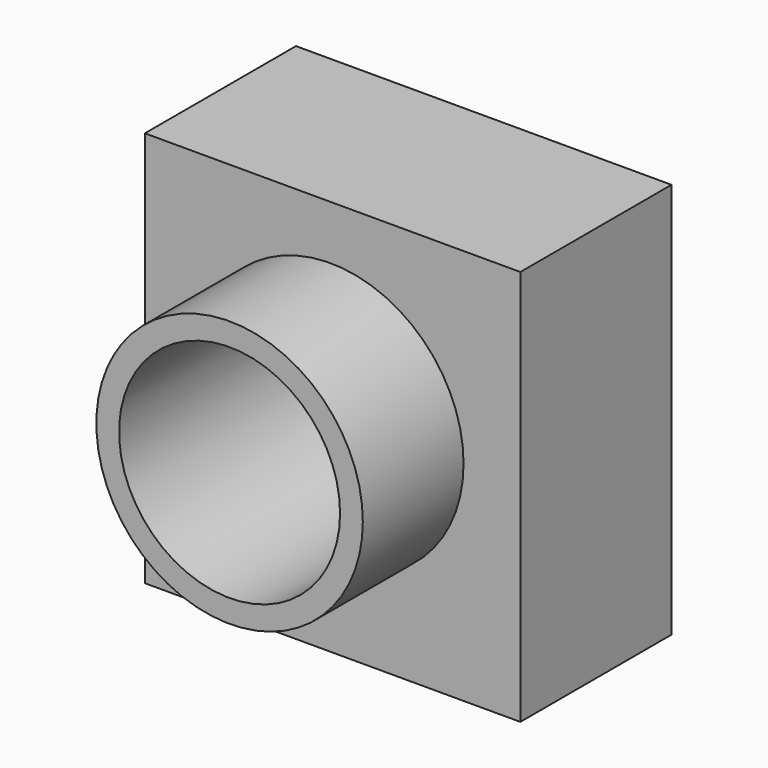
from build123d import *

# Parameters (mm, degrees)
F0_W     = 75.738185
F0_H     = 79.894543
F1_DEPTH = 38.1
F2_R     = 26.877172
F3_DEPTH = 25.4
F4_R     = 22.28871
F5_DEPTH = 63.501


with BuildPart() as f1:
    # F0 (on Front) → F1 (new body)
    with BuildSketch(Plane.XZ):
        with Locations((0.46182, -2.193634)):
            Rectangle(F0_W, F0_H)
    extrude(amount=F1_DEPTH)

    # F2 (on face) → F3 (join)
    with BuildSketch(Plane.XZ.offset(38.1)):
        Circle(F2_R)
    extrude(amount=F3_DEPTH)

    # F4 (on face) → F5 (cut, through all)
    with BuildSketch(Plane.XZ.offset(63.5)):
        Circle(F4_R)
    extrude(amount=-F5_DEPTH, mode=Mode.SUBTRACT)


solid = f1.part
